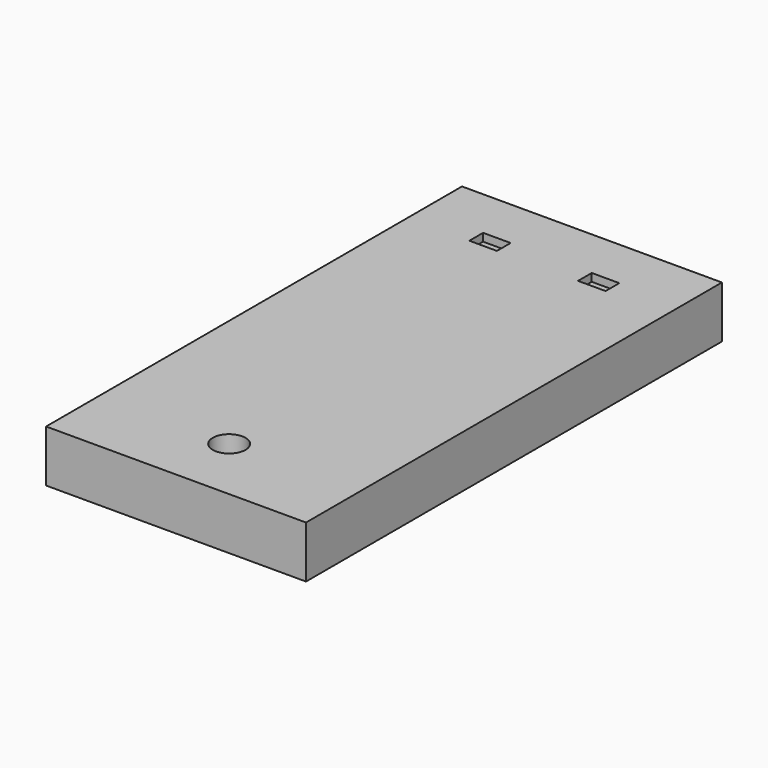
from build123d import *

# Parameters (mm, degrees)
F0_W          = 50
F0_H          = 100
F1_DEPTH      = 10
F3_DEPTH      = 50
F3_DEPTH_BACK = 30
F4_W          = 5.3
F4_H          = 3.3
F5_DEPTH      = 1.5
F6_R          = 6
F7_DEPTH      = 4
F8_R          = 3.15
F9_DEPTH      = 6


with BuildPart() as f1:
    # F0 (on Top) → F1 (new body)
    with BuildSketch(Plane.XY):
        Rectangle(F0_W, F0_H)
    extrude(amount=F1_DEPTH)

    # F2 (on Front) → F3 (cut, two sides)
    with BuildSketch(Plane.XZ) as f3_sk:
        Polygon((-5.1, 0), (0, 0), (5.1, 0), (13.2, 8.1), (0, 8.1), (-13.2, 8.1), align=None)
    extrude(amount=-F3_DEPTH, mode=Mode.SUBTRACT)
    extrude(f3_sk.sketch, amount=F3_DEPTH_BACK, mode=Mode.SUBTRACT)

    # F4 (on face) → F5 (cut)
    with BuildSketch(Plane.XY.offset(10)):
        with Locations((-10.45, 38.55)):
            Rectangle(F4_W, F4_H)
        with Locations((10.45, 38.55)):
            Rectangle(F4_W, F4_H)
    extrude(amount=-F5_DEPTH, mode=Mode.SUBTRACT)

    # F6 (on face) → F7 (cut)
    with BuildSketch(Plane(origin=(0, 0, 0), x_dir=(1, 0, 0), z_dir=(0, 0, -1))):
        with Locations((0, 37.2307598591)):
            Circle(F6_R)
    extrude(amount=-F7_DEPTH, mode=Mode.SUBTRACT)

    # F8 (on face) → F9 (cut, through all)
    with BuildSketch(Plane(origin=(0, 0, 4), x_dir=(1, 0, 0), z_dir=(0, 0, -1))):
        with Locations((0, 37.2307598591)):
            Circle(F8_R)
    extrude(amount=-F9_DEPTH, mode=Mode.SUBTRACT)


solid = f1.part
